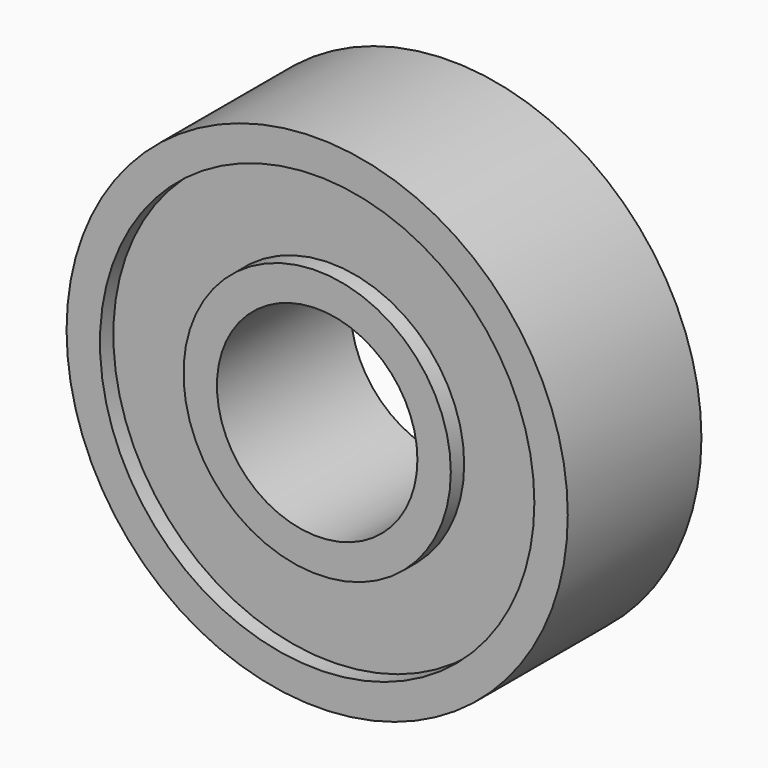
from build123d import *

# Parameters (mm, degrees)
F0_R     = 7.5
F0_R_2   = 6.5
F1_DEPTH = 2.5
F0_R_3   = 4
F2_DEPTH = 2
F0_R_4   = 3
F3_DEPTH = 2.5


with BuildPart() as f1:
    # F0 (on Front) → F1 (new body, symmetric)
    with BuildSketch(Plane.XZ):
        Circle(F0_R)
        Circle(F0_R_2, mode=Mode.SUBTRACT)
    extrude(amount=F1_DEPTH, both=True)

    # F0 (on Front) → F2 (join, symmetric)
    with BuildSketch(Plane.XZ):
        Circle(F0_R_2)
        Circle(F0_R_3, mode=Mode.SUBTRACT)
    extrude(amount=F2_DEPTH, both=True)

    # F0 (on Front) → F3 (join, symmetric)
    with BuildSketch(Plane.XZ):
        Circle(F0_R_3)
        Circle(F0_R_4, mode=Mode.SUBTRACT)
    extrude(amount=F3_DEPTH, both=True)


solid = f1.part
